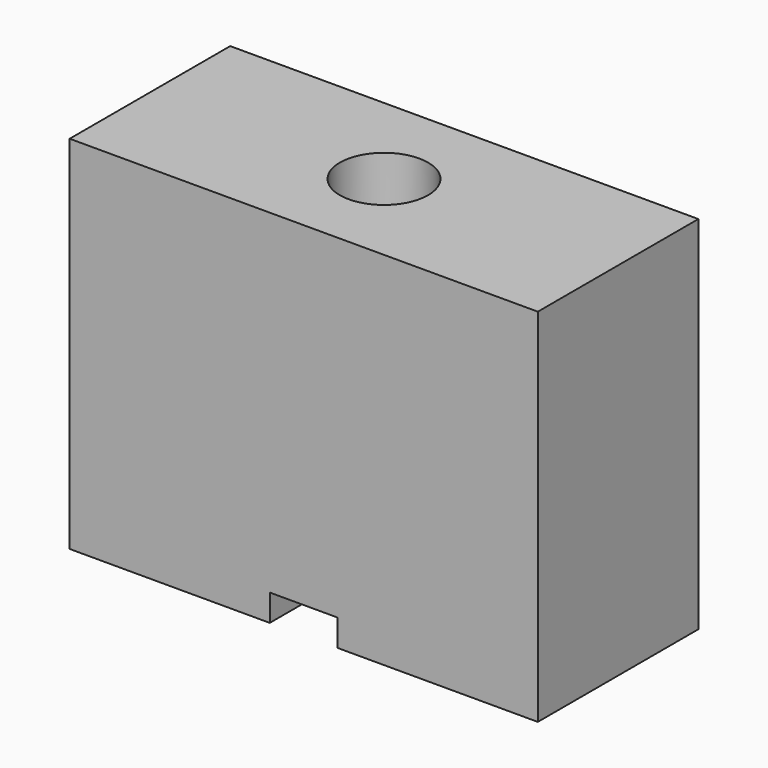
from build123d import *

# Parameters (mm, degrees)
F0_W           = 175
F0_H           = 135
F1_DEPTH       = 75
F2_W           = 12.7
F2_H           = 20
F3_DEPTH       = 92.1
F5_D           = 22
F5_DEPTH       = 180
F5_CBORE_D     = 33
F5_CBORE_DEPTH = 30


with BuildPart() as f1:
    # F0 (on Front) → F1 (new body)
    with BuildSketch(Plane.XZ):
        with Locations((-87.5, 67.5)):
            Rectangle(F0_W, F0_H)
    extrude(amount=F1_DEPTH)

    # F2 (on face) → F3 (cut)
    with BuildSketch(Plane.XZ.offset(75)):
        with Locations((-93.85, 0)):
            Rectangle(F2_W, F2_H)
        with Locations((-81.15, 0)):
            Rectangle(F2_W, F2_H)
    extrude(amount=-F3_DEPTH, mode=Mode.SUBTRACT)

    # F5
    with Locations(Plane.XY.offset(135)):
        with Locations((-87.5, -37.5)):
            CounterBoreHole(F5_D / 2, F5_CBORE_D / 2, F5_CBORE_DEPTH, depth=F5_DEPTH)


solid = f1.part
